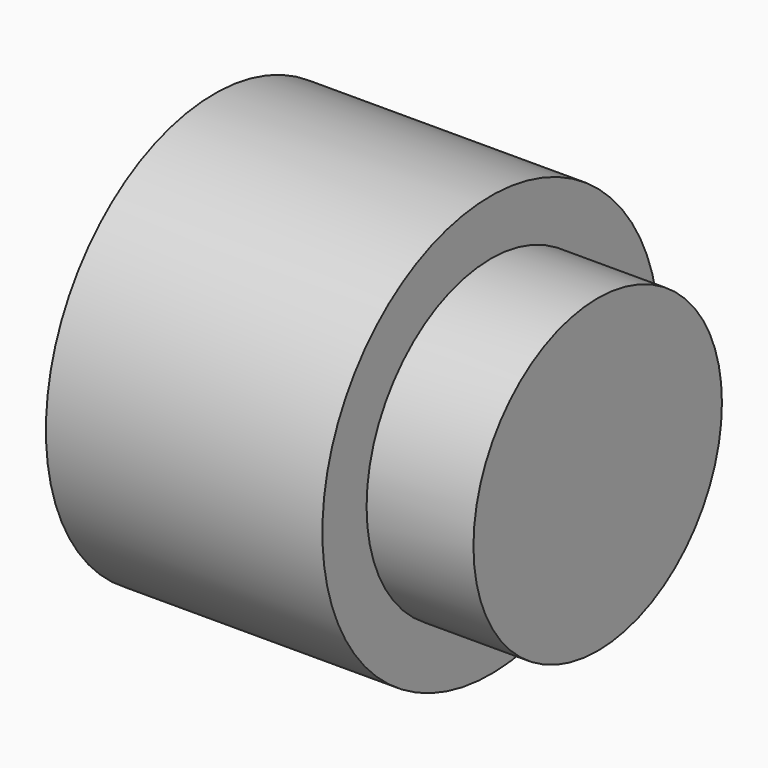
from build123d import *

# Parameters (mm, degrees)
F0_R       = 50.0459463607
F1_DEPTH   = 65.71598351
F2_R       = 36.9101564502
F1_FACE1_R = 50.0459463607
F3_DEPTH   = 25.4


with BuildPart() as f1:
    # F0 (on Right) → F1 (new body)
    with BuildSketch(Plane.YZ):
        with Locations((19.0860405564, -39.9659797549)):
            Circle(F0_R)
    extrude(amount=-F1_DEPTH)

    # F2 (on face) + F1_face1 (on face) → F3 (join)
    with BuildSketch(Plane.YZ):
        with Locations((19.0860405564, -39.9659797549)):
            Circle(F2_R)
    with BuildSketch(Plane(origin=(-65.71598351, 19.0860405564, -39.9659797549), x_dir=(0, 1, 0), z_dir=(-1, 0, 0))):
        Circle(F1_FACE1_R)
    extrude(amount=F3_DEPTH, dir=(1, 0, 0))


solid = f1.part
